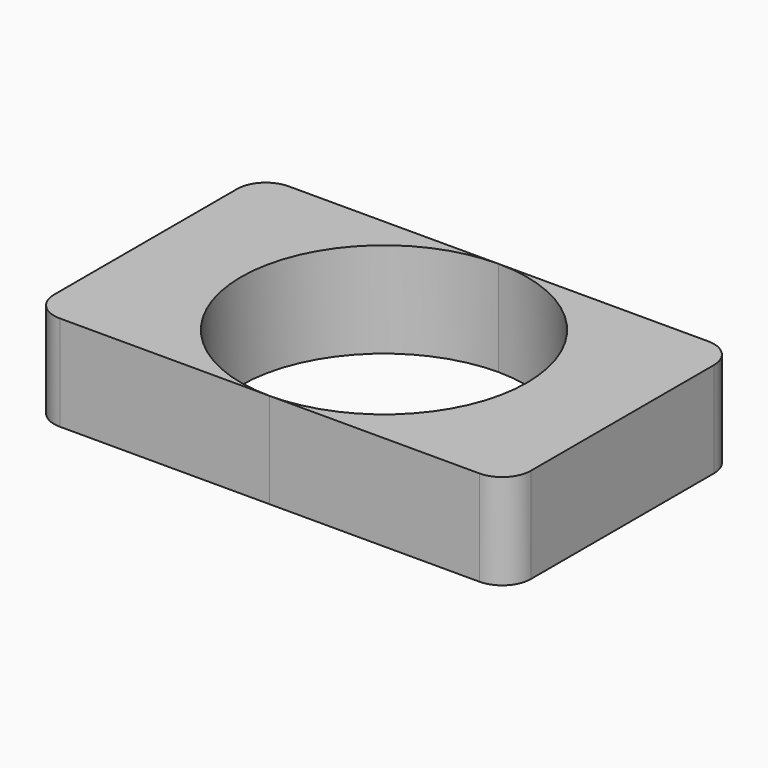
from build123d import *

# Parameters (mm, degrees)
F0_W     = 127
F0_H     = 76.2
F1_DEPTH = 25.4
F2_R     = 7.62
F4_DEPTH = 76.2


with BuildPart() as f1:
    # F0 (on Top) → F1 (new body)
    with BuildSketch(Plane.XY):
        Rectangle(F0_W, F0_H)
    extrude(amount=-F1_DEPTH)

    # F2
    f2_edges = [f1.edges().sort_by_distance(p)[0] for p in [
        (63.5, -38.1, -12.7),
        (63.5, 38.1, -12.7),
        (-63.5, -38.1, -12.7),
        (-63.5, 38.1, -12.7),
    ]]
    fillet(f2_edges, radius=F2_R)

    # F3 (on face) → F4 (cut)
    with BuildSketch(Plane.XY):
        with BuildLine():
            ThreePointArc((0, -38.1), (26.940768, -26.940768), (38.1, 0))
            ThreePointArc((38.1, 0), (26.940768, 26.940768), (0, 38.1))
            ThreePointArc((0, 38.1), (-38.1, 0), (0, -38.1))
        make_face()
    extrude(amount=-F4_DEPTH, mode=Mode.SUBTRACT)


solid = f1.part
